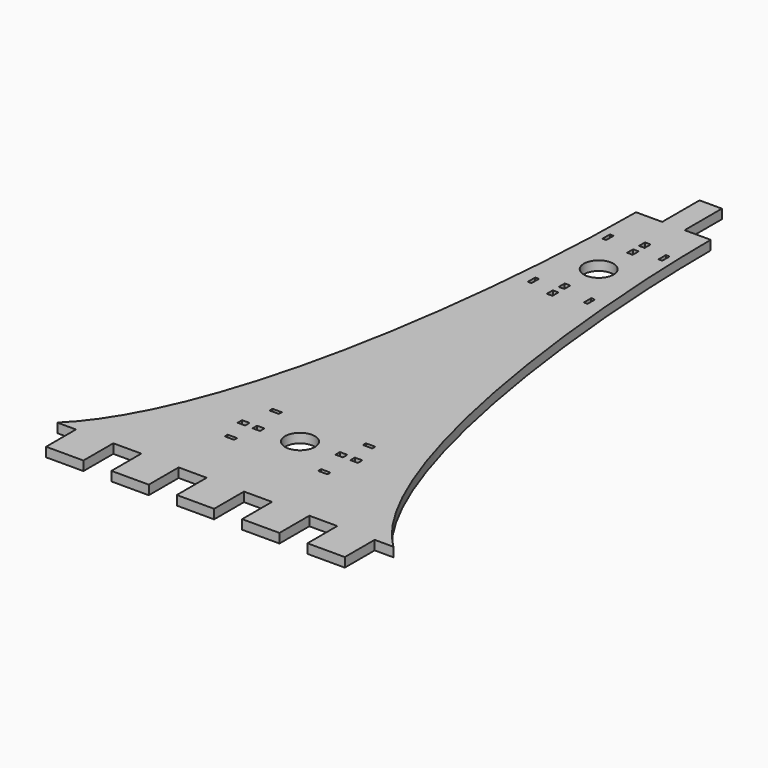
from build123d import *

# Parameters (mm, degrees)
SKETCH_R        = 7.95
PAD_DEPTH       = 5
SKETCH003_W     = 5
SKETCH003_H     = 2
SKETCH003_W_2   = 4
SKETCH003_H_2   = 3
POCKET_DEPTH    = 5.001
SKETCH002_W     = 5
SKETCH002_H     = 2
SKETCH002_W_2   = 4
SKETCH002_H_2   = 3
POCKET001_DEPTH = 5.001
POCKET002_DEPTH = 5.001


with BuildPart() as part:
    # Sketch → Pad (new body)
    with BuildSketch(Plane.XY):
        with BuildLine():
            add(Edge.make_bspline(
                [(-20, 150), (-20, 60), (-38.5, -100), (-90, -150)],
                knots=[0, 0, 0, 0, 1, 1, 1, 1], degree=3))
            Line((-20, 150), (-6, 150))
            Line((-6, 150), (-6, 175))
            Line((-6, 175), (6, 175))
            Line((6, 175), (6, 150))
            Line((6, 150), (20, 150))
            add(Edge.make_bspline(
                [(90, -150), (38.5, -100), (20, 60), (20, 150)],
                knots=[0, 0, 0, 0, 1, 1, 1, 1], degree=3))
            Line((90, -150), (90, -170))
            Line((90, -170), (-90, -170))
            Line((-90, -170), (-90, -150))
        make_face()
        with Locations((0, -100)):
            Circle(SKETCH_R, mode=Mode.SUBTRACT)
        with Locations((0, 100)):
            Circle(SKETCH_R, mode=Mode.SUBTRACT)
    extrude(amount=PAD_DEPTH)

    # Sketch003 (on Face28 of Pad) → Pocket (cut, through all)
    with BuildSketch(Plane(origin=(0, 100, 5), x_dir=(0, 1, 0), z_dir=(0, 0, 1))):
        with Locations((-25, 15)):
            Rectangle(SKETCH003_W, SKETCH003_H)
        with Locations((25, 15)):
            Rectangle(SKETCH003_W, SKETCH003_H)
        with Locations((25, -15)):
            Rectangle(SKETCH003_W, SKETCH003_H)
        with Locations((-25, -15)):
            Rectangle(SKETCH003_W, SKETCH003_H)
        with Locations((-29, 1.5)):
            Rectangle(SKETCH003_W_2, SKETCH003_H_2)
        with Locations((-21, 1.5)):
            Rectangle(SKETCH003_W_2, SKETCH003_H_2)
        with Locations((21, -1.5)):
            Rectangle(SKETCH003_W_2, SKETCH003_H_2)
        with Locations((29, -1.5)):
            Rectangle(SKETCH003_W_2, SKETCH003_H_2)
    extrude(amount=-POCKET_DEPTH, mode=Mode.SUBTRACT)

    # Sketch002 (on Face28 of Pad) → Pocket001 (cut, through all)
    with BuildSketch(Plane.XY.offset(5)):
        with Locations((-25, -85)):
            Rectangle(SKETCH002_W, SKETCH002_H)
        with Locations((25, -85)):
            Rectangle(SKETCH002_W, SKETCH002_H)
        with Locations((25, -115)):
            Rectangle(SKETCH002_W, SKETCH002_H)
        with Locations((-25, -115)):
            Rectangle(SKETCH002_W, SKETCH002_H)
        with Locations((21, -98.5)):
            Rectangle(SKETCH002_W_2, SKETCH002_H_2)
        with Locations((29, -98.5)):
            Rectangle(SKETCH002_W_2, SKETCH002_H_2)
        with Locations((-29, -101.5)):
            Rectangle(SKETCH002_W_2, SKETCH002_H_2)
        with Locations((-21, -101.5)):
            Rectangle(SKETCH002_W_2, SKETCH002_H_2)
    extrude(amount=-POCKET001_DEPTH, mode=Mode.SUBTRACT)

    # Sketch004 (on Face5 of Pocket001) → Pocket002 (cut, through all)
    with BuildSketch(Plane.XY.offset(5)):
        Polygon((-90, -150), (-80, -150), (-80, -170), (-60, -170), (-60, -150), (-45, -150), (-45, -170), (-25, -170), (-25, -150), (-10, -150), (-10, -170), (10, -170), (10, -150), (25, -150), (25, -170), (45, -170), (45, -150), (60, -150), (60, -170), (80, -170), (80, -150), (90, -150), (90, -180), (-90, -180), align=None)
    extrude(amount=-POCKET002_DEPTH, mode=Mode.SUBTRACT)


solid = part.part
